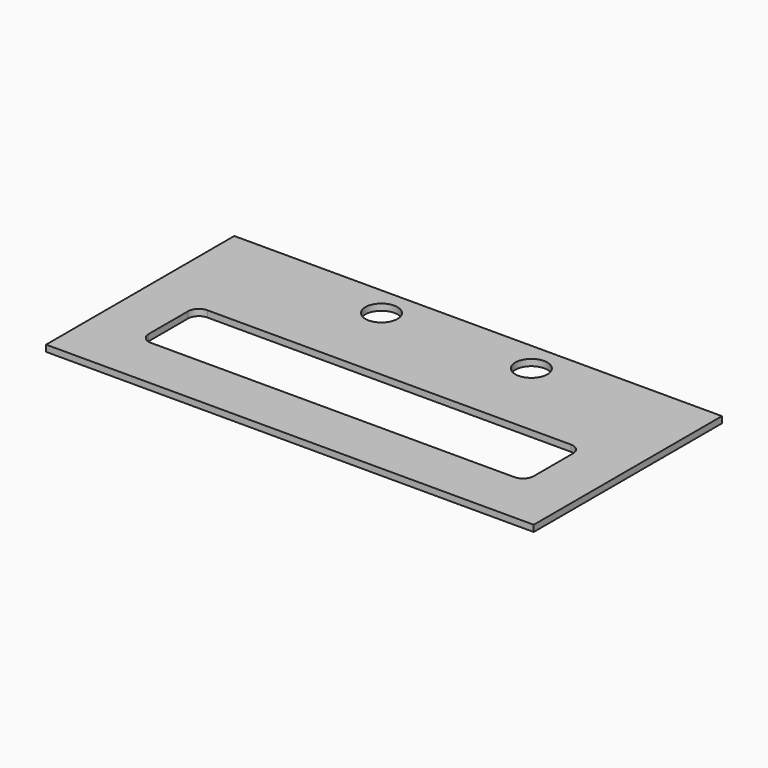
from build123d import *

# Parameters (mm, degrees)
F0_W     = 228
F0_H     = 110
F1_DEPTH = 3
F2_W     = 180
F2_H     = 33
F3_DEPTH = 25
F4_R     = 5
F5_R     = 7.5
F6_DEPTH = 25


with BuildPart() as f1:
    # F0 (on Top) → F1 (new body)
    with BuildSketch(Plane.XY):
        with Locations((-114, 55)):
            Rectangle(F0_W, F0_H)
    extrude(amount=F1_DEPTH)

    # F2 (on face) → F3 (cut)
    with BuildSketch(Plane.XY.offset(3)):
        with Locations((-114, 41.5)):
            Rectangle(F2_W, F2_H)
    extrude(amount=-F3_DEPTH, mode=Mode.SUBTRACT)

    # F4
    f4_edges = [f1.edges().sort_by_distance(p)[0] for p in [
        (-24, 25, 1.5),
        (-24, 58, 1.5),
        (-204, 58, 1.5),
        (-204, 25, 1.5),
    ]]
    fillet(f4_edges, radius=F4_R)

    # F5 (on face) → F6 (cut)
    with BuildSketch(Plane(origin=(0, 0, 0), x_dir=(1, 0, 0), z_dir=(0, 0, -1))):
        with Locations((-148, -96)):
            Circle(F5_R)
        with Locations((-77.9, -96)):
            Circle(F5_R)
    extrude(amount=-F6_DEPTH, mode=Mode.SUBTRACT)


solid = f1.part
